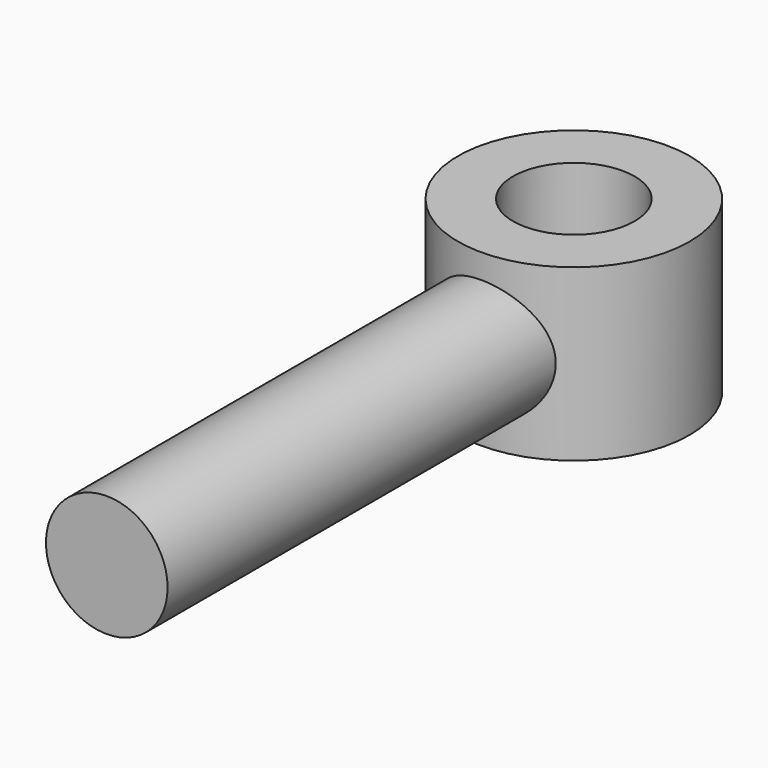
from build123d import *

# Parameters (mm, degrees)
F0_R     = 9.525
F0_R_2   = 5
F1_DEPTH = 7
F2_R     = 5
F3_DEPTH = 48
F4_R     = 5
F5_DEPTH = 12.5


with BuildPart() as f1:
    # F0 (on Top) → F1 (new body, symmetric)
    with BuildSketch(Plane.XY):
        Circle(F0_R)
        Circle(F0_R_2, mode=Mode.SUBTRACT)
    extrude(amount=F1_DEPTH, both=True)

    # F2 (on Front) → F3 (join)
    with BuildSketch(Plane.XZ):
        Circle(F2_R)
    extrude(amount=F3_DEPTH)

    # F4 (on Top) → F5 (cut, symmetric)
    with BuildSketch(Plane.XY):
        Circle(F4_R)
    extrude(amount=F5_DEPTH, both=True, mode=Mode.SUBTRACT)


solid = f1.part
